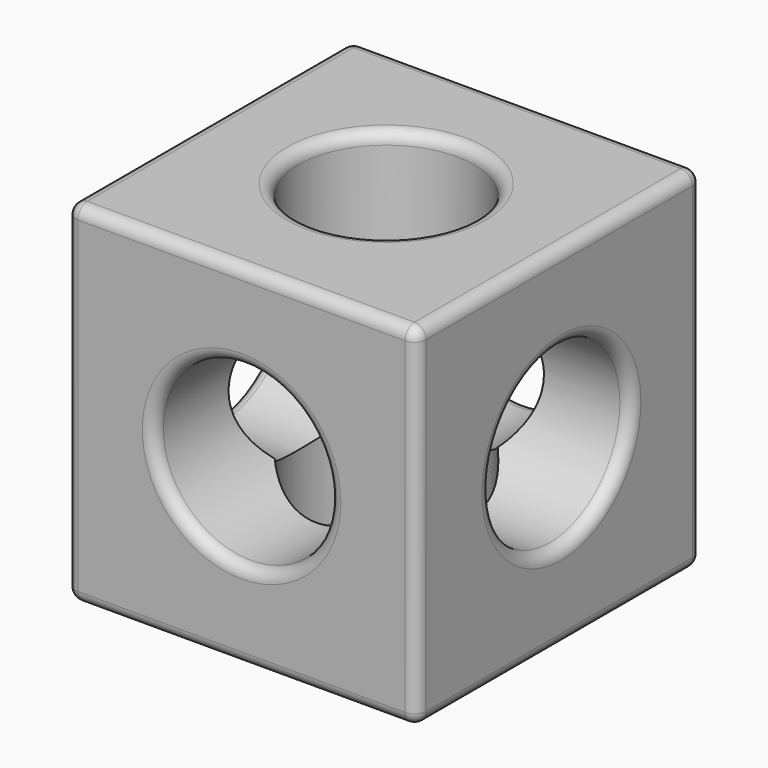
from build123d import *

# Parameters (mm, degrees)
F0_W     = 150
F0_H     = 150
F1_DEPTH = 152.4
F2_R     = 37.5
F3_DEPTH = 252
F4_R     = 37.5
F5_DEPTH = 150
F6_R     = 37.5
F7_DEPTH = 150
F8_R     = 5


with BuildPart() as f1:
    # F0 (on Front) → F1 (new body)
    with BuildSketch(Plane.XZ):
        Rectangle(F0_W, F0_H)
    extrude(amount=F1_DEPTH)

    # F2 (on face) → F3 (cut)
    with BuildSketch(Plane.XZ):
        Circle(F2_R)
    extrude(amount=F3_DEPTH, mode=Mode.SUBTRACT)

    # F4 (on face) → F5 (cut)
    with BuildSketch(Plane(origin=(0, 0, -75), x_dir=(1, 0, 0), z_dir=(0, 0, -1))):
        with Locations((0, 75)):
            Circle(F4_R)
    extrude(amount=-F5_DEPTH, mode=Mode.SUBTRACT)

    # F6 (on face) → F7 (cut)
    with BuildSketch(Plane.YZ.offset(75)):
        with Locations((-75, 0)):
            Circle(F6_R)
    extrude(amount=-F7_DEPTH, mode=Mode.SUBTRACT)

    # F8
    f8_edges = [f1.edges().sort_by_distance(p)[0] for p in [
        (75, -76.2, -75),
        (75, 0, 0),
        (75, -152.4, 0),
        (75, -76.2, 75),
        (75, -112.5, 0),
        (0, -152.4, -75),
        (0, -152.4, 75),
        (-75, -152.4, 0),
        (-37.5, -152.4, 0),
        (0, 0, 75),
        (-75, -76.2, 75),
        (-37.5, -75, 75),
        (-75, -76.2, -75),
        (0, 0, -75),
        (-37.5, -75, -75),
        (-75, 0, 0),
        (-75, -112.5, 0),
        (-37.5, 0, 0),
    ]]
    fillet(f8_edges, radius=F8_R)


solid = f1.part
